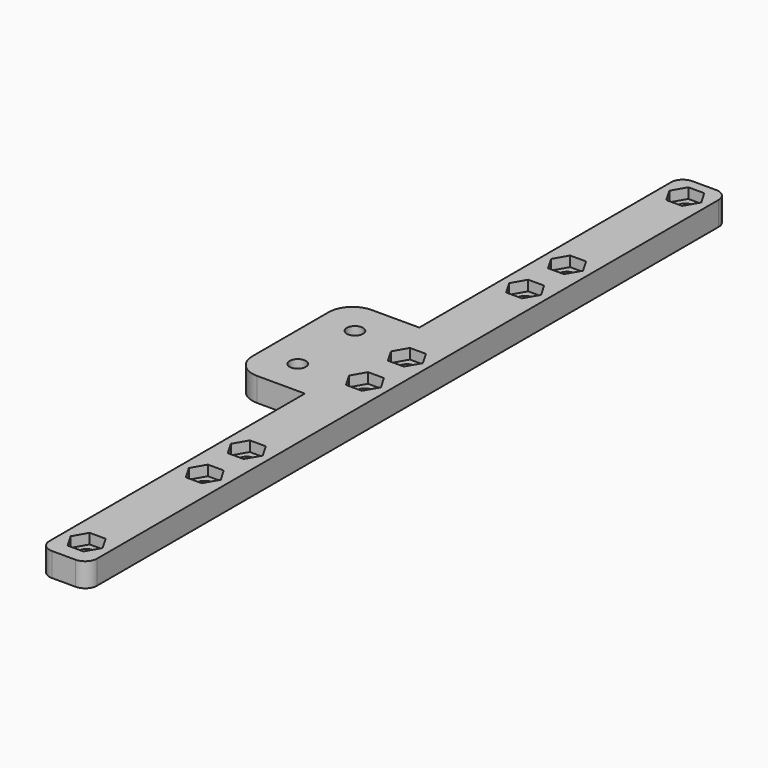
from build123d import *

# Parameters (mm, degrees)
PAD_DEPTH                    = 5
POCKET_DEPTH                 = 2.15
SKETCH002_R                  = 1.7
HOLE_DEPTH                   = 339.594226
POCKET_LINEARPATTERN_2_DEPTH = 2.15
SKETCH002_LINEARPATTERN_2_R  = 1.7
HOLE_LINEARPATTERN_2_DEPTH   = 339.594226
LINEARPATTERN001_COUNT       = 4
LINEARPATTERN001_PITCH       = 42
PAD001_DEPTH                 = 5
POCKET001_DEPTH              = 2.15
SKETCH005_R                  = 1.7
HOLE001_DEPTH                = 342.698024


with BuildPart() as part:
    # Sketch → Pad (new body)
    with BuildSketch(Plane.XY):
        with BuildLine():
            Line((0, 5), (-2.5, 5))
            ThreePointArc((-2.5, 5), (-4.267767, 4.267767), (-5, 2.5))
            Line((-5, 2.5), (-5, -160.5))
            ThreePointArc((-5, -160.5), (-4.267767, -162.267767), (-2.5, -163))
            Line((-2.5, -163), (0, -163))
            Line((0, -163), (0, 5))
        make_face()
    pad = extrude(amount=PAD_DEPTH)

    # Mirrored: Pad across Sketch V_Axis
    add(pad.mirror(Plane(origin=(0, 0, 0), x_dir=(0, 0, 1), z_dir=(1, 0, 0))))

    # Sketch001 (on Face5 of Mirrored) → Pocket (cut)
    with BuildSketch(Plane.XY.offset(5)):
        Polygon((3.348632, 0), (1.674316, 2.9), (-1.674316, 2.9), (-3.348632, 0), (-1.674316, -2.9), (1.674316, -2.9), align=None)
    pocket = extrude(amount=-POCKET_DEPTH, mode=Mode.SUBTRACT)

    # Sketch002 (on Face21 of Pocket) → Hole (cut, through all)
    with BuildSketch(Plane.XY.offset(2.85)):
        Circle(SKETCH002_R)
    hole = extrude(amount=-HOLE_DEPTH, mode=Mode.SUBTRACT)

    # Sketch001 LinearPattern 2 → Pocket LinearPattern 2 (cut)
    with BuildSketch(Plane(origin=(0, -31, 5), x_dir=(1, 0, 0), z_dir=(0, 0, 1))):
        Polygon((3.348632, 0), (1.674316, 2.9), (-1.674316, 2.9), (-3.348632, 0), (-1.674316, -2.9), (1.674316, -2.9), align=None)
    pocket_linearpattern_2 = extrude(amount=-POCKET_LINEARPATTERN_2_DEPTH, mode=Mode.SUBTRACT)

    # Sketch002 LinearPattern 2 → Hole LinearPattern 2 (cut, through all)
    with BuildSketch(Plane(origin=(0, -31, 2.85), x_dir=(1, 0, 0), z_dir=(0, 0, 1))):
        Circle(SKETCH002_LINEARPATTERN_2_R)
    hole_linearpattern_2 = extrude(amount=-HOLE_LINEARPATTERN_2_DEPTH, mode=Mode.SUBTRACT)

    # LinearPattern001: Pocket, Hole, Pocket LinearPattern 2, Hole LinearPattern 2 ×4
    with Locations(*[(0, -i * LINEARPATTERN001_PITCH, 0) for i in range(1, LINEARPATTERN001_COUNT)]):
        add(pocket, mode=Mode.SUBTRACT)
        add(hole, mode=Mode.SUBTRACT)
        add(pocket_linearpattern_2, mode=Mode.SUBTRACT)
        add(hole_linearpattern_2, mode=Mode.SUBTRACT)

    # Sketch003 (on Face5 of MultiTransform) → Pad001 (join)
    with BuildSketch(Plane.XY.offset(5)):
        with BuildLine():
            Line((-5, -78.5), (-20, -78.5))
            Line((-20, -78.5), (-20, -68.5))
            ThreePointArc((-15, -63.5), (-18.535534, -64.964466), (-20, -68.5))
            Line((-15, -63.5), (-5, -63.5))
            Line((-5, -63.5), (-5, -78.5))
        make_face()
    pad001 = extrude(amount=-PAD001_DEPTH)

    # Sketch004 (on Face17 of Pad001) → Pocket001 (cut)
    with BuildSketch(Plane(origin=(0, 0, 0), x_dir=(1, 0, 0), z_dir=(0, 0, -1))):
        Polygon((-9.6, 72.674316), (-12.5, 74.348632), (-15.4, 72.674316), (-15.4, 69.325684), (-12.5, 67.651368), (-9.6, 69.325684), align=None)
    pocket001 = extrude(amount=-POCKET001_DEPTH, mode=Mode.SUBTRACT)

    # Sketch005 (on Face92 of Pocket001) → Hole001 (cut, through all)
    with BuildSketch(Plane(origin=(0, 0, 2.15), x_dir=(1, 0, 0), z_dir=(0, 0, -1))):
        with Locations((-12.5, 71)):
            Circle(SKETCH005_R)
    hole001 = extrude(amount=-HOLE001_DEPTH, mode=Mode.SUBTRACT)

    # Mirrored001: Pad001, Pocket001, Hole001 across face of Hole001
    add(pad001.mirror(Plane(origin=(-12.5, -78.5, 2.5), x_dir=(1, 0, 0), z_dir=(0, -1, 0))))
    add(pocket001.mirror(Plane(origin=(-12.5, -78.5, 2.5), x_dir=(1, 0, 0), z_dir=(0, -1, 0))), mode=Mode.SUBTRACT)
    add(hole001.mirror(Plane(origin=(-12.5, -78.5, 2.5), x_dir=(1, 0, 0), z_dir=(0, -1, 0))), mode=Mode.SUBTRACT)


solid = part.part
